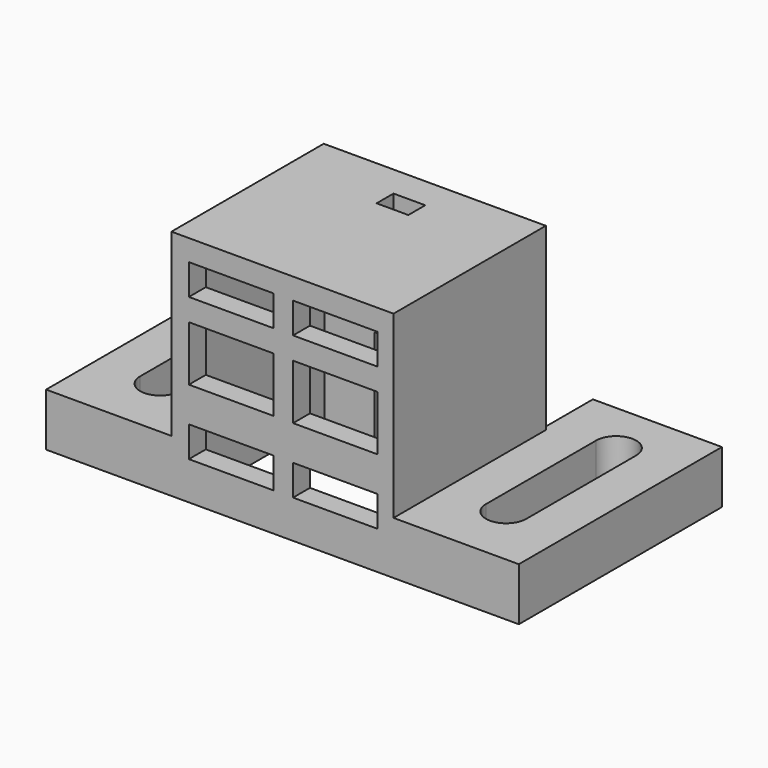
from build123d import *

# Parameters (mm, degrees)
F0_W      = 18.4
F0_H      = 14.3
F1_DEPTH  = 5
F2_W      = 18.4
F2_H      = 14.3
F3_DEPTH  = 15
F4_W      = 21
F4_H      = 18
F5_DEPTH  = 2
F6_W      = 8
F6_H      = 2.9
F6_H_2    = 5.2
F7_DEPTH  = 3
F8_W      = 2
F8_H      = 11.251825
F9_DEPTH  = 3
F11_DEPTH = 5
F12_W     = 3
F12_H     = 2
F13_DEPTH = 5


with BuildPart() as f1:
    # F0 (on Top) → F1 (new body)
    with BuildSketch(Plane.XY):
        Polygon((-10, 24), (-22.5, 24), (-22.5, 0), (22.2, 0), (22.2, 24), (10, 24), (10, 18), (-10, 18), align=None)
        with Locations((0, 9.15)):
            Rectangle(F0_W, F0_H, mode=Mode.SUBTRACT)
        with BuildLine():
            Line((-18.4, 6), (-18.4, 19))
            ThreePointArc((-18.4, 19), (-16.5, 20.9), (-14.6, 19))
            Line((-14.6, 19), (-14.6, 6))
            ThreePointArc((-14.6, 6), (-16.5, 4.1), (-18.4, 6))
        make_face(mode=Mode.SUBTRACT)
        with BuildLine():
            Line((14.3, 6), (14.3, 19))
            ThreePointArc((14.3, 19), (16.2, 20.9), (18.1, 19))
            Line((18.1, 19), (18.1, 6))
            ThreePointArc((18.1, 6), (16.2, 4.1), (14.3, 6))
        make_face(mode=Mode.SUBTRACT)
    extrude(amount=F1_DEPTH)

    # F2 (on face) → F3 (join)
    with BuildSketch(Plane.XY.offset(5)):
        Polygon((-10.65, 18), (-10.65, 0), (10.35, 0), (10.35, 18), (10, 18), (-10, 18), align=None)
        with Locations((0, 9.15)):
            Rectangle(F2_W, F2_H, mode=Mode.SUBTRACT)
    extrude(amount=F3_DEPTH)

    # F4 (on face) → F5 (join)
    with BuildSketch(Plane.XY.offset(20)):
        with Locations((-0.15, 9)):
            Rectangle(F4_W, F4_H)
    extrude(amount=F5_DEPTH)

    # F6 (on face) → F7 (cut)
    with BuildSketch(Plane.XZ):
        with Locations((-5, 18.55)):
            Rectangle(F6_W, F6_H)
        with Locations((4.85, 18.55)):
            Rectangle(F6_W, F6_H)
        with Locations((-5, 12.4)):
            Rectangle(F6_W, F6_H_2)
        with Locations((4.85, 12.4)):
            Rectangle(F6_W, F6_H_2)
        with Locations((-5, 5.05)):
            Rectangle(F6_W, F6_H)
        with Locations((4.85, 5.05)):
            Rectangle(F6_W, F6_H)
    extrude(amount=-F7_DEPTH, mode=Mode.SUBTRACT)

    # F8 (on face) → F9 (cut)
    with BuildSketch(Plane(origin=(0, 18, 0), x_dir=(-1, 0, 0), z_dir=(0, 1, 0))):
        with Locations((-3.5, 3.374087)):
            Rectangle(F8_W, F8_H)
        with Locations((3.5, 3.374087)):
            Rectangle(F8_W, F8_H)
    extrude(amount=-F9_DEPTH, mode=Mode.SUBTRACT)

    # F10 (on face) → F11 (join)
    with BuildSketch(Plane.YZ.offset(2.5)):
        Polygon((16.3, 0), (16.3, 3), (15.3, 3), align=None)
    extrude(amount=-F11_DEPTH)

    # F12 (on face) → F13 (cut)
    with BuildSketch(Plane.XY.offset(22)):
        with Locations((-0.15, 14)):
            Rectangle(F12_W, F12_H)
    extrude(amount=-F13_DEPTH, mode=Mode.SUBTRACT)


solid = f1.part
